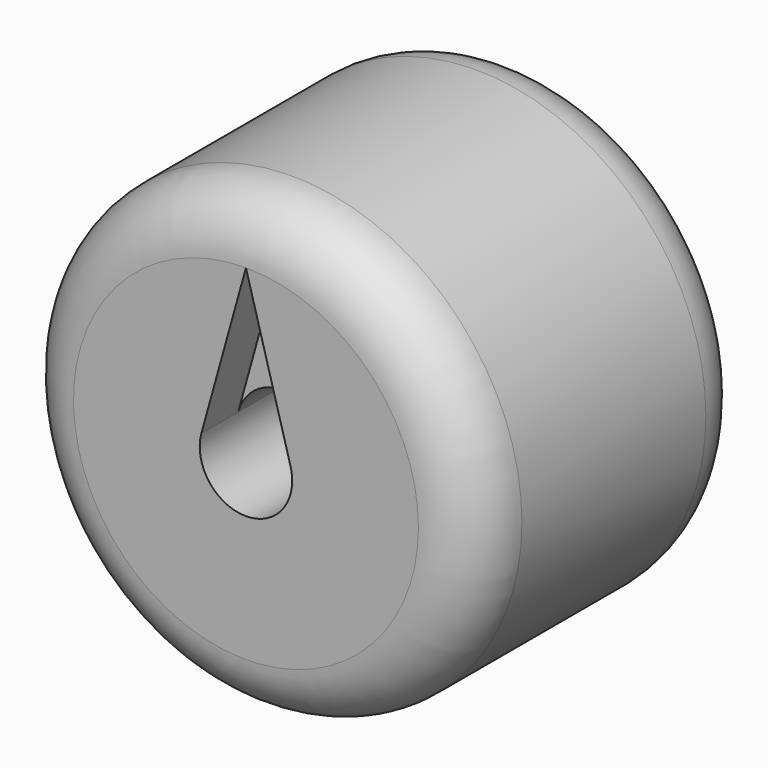
from build123d import *

# Parameters (mm, degrees)
F0_R     = 10
F0_R_2   = 9
F1_DEPTH = 15
F2_R     = 2.5
F4_DEPTH = 50
F5_DEPTH = 2


with BuildPart() as f1:
    # F0 (on Front) → F1 (new body)
    with BuildSketch(Plane.XZ):
        Circle(F0_R)
        Circle(F0_R_2, mode=Mode.SUBTRACT)
        Circle(F0_R_2)
    extrude(amount=F1_DEPTH)

    # F2
    f2_edges = [f1.edges().sort_by_distance(p)[0] for p in [
        (-10, -15, 0),
        (-10, 0, 0),
    ]]
    fillet(f2_edges, radius=F2_R)

    # F3 (on face) → F4 (cut)
    with BuildSketch(Plane.XZ.offset(15)):
        with BuildLine():
            ThreePointArc((-1.936537, 0.538719), (-0.271857, -1.991604), (2.010073, 0))
            ThreePointArc((2.010073, 0), (1.991604, 0.271857), (1.936537, 0.538719))
            ThreePointArc((1.936537, 0.538719), (0, 2.010073), (-1.936537, 0.538719))
        make_face()
    extrude(amount=-F4_DEPTH, mode=Mode.SUBTRACT)

    # F3 (on face) → F5 (cut)
    with BuildSketch(Plane.XZ.offset(15)):
        with BuildLine():
            ThreePointArc((-1.936537, 0.538719), (0, 2.010073), (1.936537, 0.538719))
            Line((1.936537, 0.538719), (0, 7.5))
            Line((0, 7.5), (-1.936537, 0.538719))
        make_face()
    extrude(amount=-F5_DEPTH, mode=Mode.SUBTRACT)


solid = f1.part
